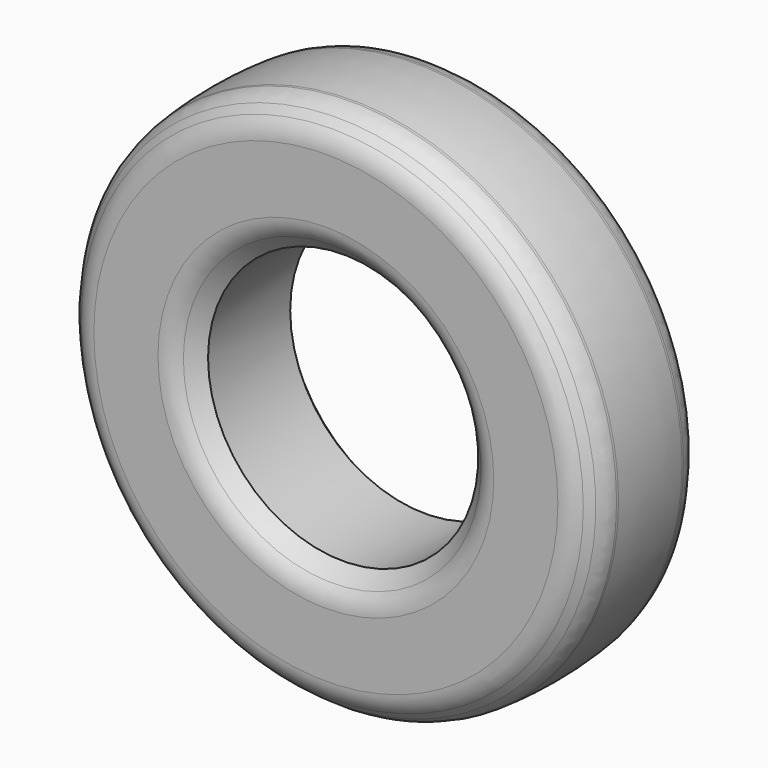
from build123d import *

# Parameters (mm, degrees)
F2_R = 5
F3_R = 70


with BuildPart() as f1:
    # F0 (on Top) → F1 (revolve)
    with BuildSketch(Plane.XY):
        Polygon((-25, 0), (-25, 9.5), (-29, 13.5), (-45, 13.5), (-49, 9.5), (-50, 0), (-49, -9.5), (-45, -13.5), (-29, -13.5), (-25, -9.5), align=None)
        Polygon((-25, 0), (-25, 9.5), (-29, 13.5), (-45, 13.5), (-49, 9.5), (-50, 0), (-49, -9.5), (-45, -13.5), (-29, -13.5), (-25, -9.5), align=None)
    revolve(axis=Axis((0, 18.855867, 0), (0, 1, 0)))

    # F2
    f2_edges = [f1.edges().sort_by_distance(p)[0] for p in [
        (29, -13.5, 0),
        (45, -13.5, 0),
        (49, -9.5, 0),
        (45, 13.5, 0),
        (29, 13.5, 0),
        (49, 9.5, 0),
    ]]
    fillet(f2_edges, radius=F2_R)

    # F3
    f3_edges = [f1.edges().sort_by_distance(p)[0] for p in [
        (50, 0, 0),
    ]]
    fillet(f3_edges, radius=F3_R)


solid = f1.part
